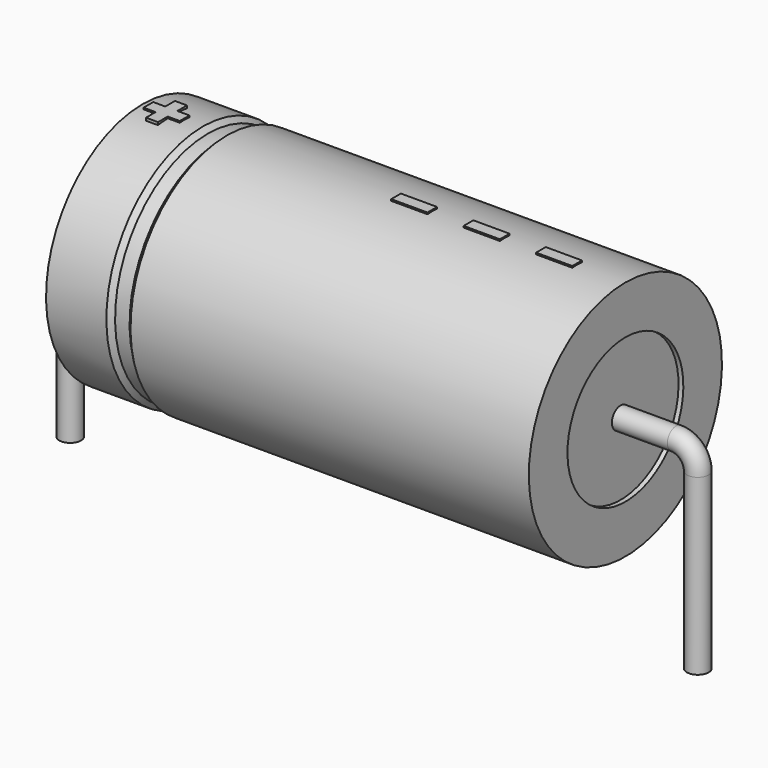
from build123d import *

# Parameters (mm, degrees)
SKETCH_R    = 0.45
SKETCH004_W = 1.5
SKETCH004_H = 0.5
PAD_DEPTH   = 5.05


with BuildPart() as sweep_body:
    # Sweep: sweep along a path in Sketch001
    with BuildLine(Plane.XZ) as sweep_path:
        Line((0, -3), (0, 4.2))
        ThreePointArc((0, 4.2), (0.263607, 4.836399), (0.900008, 5.1))
        Line((0.900008, 5.1), (25.1, 5.1))
        ThreePointArc((25.1, 5.1), (25.736396, 4.836396), (26, 4.2))
        Line((26, 4.2), (26, -3))
    # Sketch → Sweep (sweep)
    with BuildSketch(Plane.XY.offset(-2)):
        Circle(SKETCH_R)
    sweep(path=sweep_path.line)


with BuildPart() as revolution:
    # Sketch002 → Revolution (revolve)
    with BuildSketch(Plane.XZ):
        Polygon((3, 10.1), (3, 8.1), (23, 8.1), (23, 10.1), (6.5, 10.1), (6.3, 9.9), (5.7, 9.9), (5.5, 10.1), align=None)
    revolve(axis=Axis((6.97588, 0, 5.1), (1, 0, 0)))


with BuildPart() as revolution001:
    # Sketch003 → Revolution001 (revolve)
    with BuildSketch(Plane.XZ):
        Polygon((3.2, 9.9), (4.2, 9.9), (4.2, 5.6), (21.8, 5.6), (21.8, 9.9), (22.8, 9.9), (22.8, 5.1), (3.2, 5.1), align=None)
    revolve(axis=Axis((6.97588, 0, 5.1), (1, 0, 0)))


with BuildPart() as pad:
    # Sketch004 → Pad (new body)
    with BuildSketch(Plane.XY.offset(5.1)):
        with Locations((20.25, 0)):
            Rectangle(SKETCH004_W, SKETCH004_H)
        with Locations((17.25, 0)):
            Rectangle(SKETCH004_W, SKETCH004_H)
        with Locations((14.25, 0)):
            Rectangle(SKETCH004_W, SKETCH004_H)
        Polygon((3.74, 0.25), (3.24, 0.25), (3.24, -0.25), (3.74, -0.25), (3.74, -0.75), (4.24, -0.75), (4.24, -0.25), (4.74, -0.25), (4.74, 0.25), (4.24, 0.25), (4.24, 0.75), (3.74, 0.75), align=None)
    extrude(amount=PAD_DEPTH)


solid = Compound([sweep_body.part, revolution.part, revolution001.part, pad.part])
